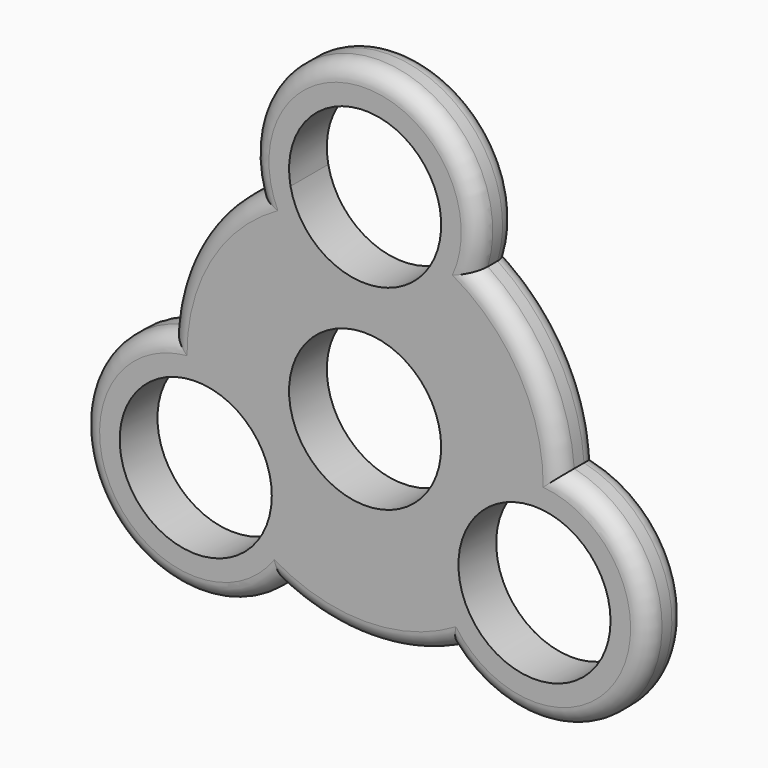
from build123d import *

# Parameters (mm, degrees)
F0_R     = 11.049
F1_DEPTH = 6.858
F2_R     = 2.54


with BuildPart() as f1:
    # F0 (on Front) → F1 (new body)
    with BuildSketch(Plane.XZ):
        with BuildLine():
            ThreePointArc((15.797847, 23.616737), (0, 44.923416), (-15.797847, 23.616737))
            ThreePointArc((-15.797847, 23.616737), (-24.60674, 14.206708), (-28.351617, 1.872968))
            ThreePointArc((-28.351617, 1.872968), (-38.904819, -22.461708), (-12.55377, -25.489705))
            ThreePointArc((-12.55377, -25.489705), (0, -28.413416), (12.55377, -25.489705))
            ThreePointArc((12.55377, -25.489705), (38.904819, -22.461708), (28.351617, 1.872968))
            ThreePointArc((28.351617, 1.872968), (24.60674, 14.206708), (15.797847, 23.616737))
        make_face()
        with Locations((-24.60674, -14.206708)):
            Circle(F0_R, mode=Mode.SUBTRACT)
        Circle(F0_R, mode=Mode.SUBTRACT)
        with Locations((24.60674, -14.206708)):
            Circle(F0_R, mode=Mode.SUBTRACT)
        with BuildLine():
            ThreePointArc((-10.838139, 26.265128), (2.590461, 39.154455), (8.667378, 21.560901))
            ThreePointArc((8.667378, 21.560901), (-2.590461, 17.672377), (-10.838139, 26.265128))
        make_face(mode=Mode.SUBTRACT)
    extrude(amount=F1_DEPTH)

    # F2
    f2_edges = [f1.edges().sort_by_distance(p)[0] for p in [
        (24.60674, -6.858, 14.206708),
        (0, -6.858, 44.923416),
        (-38.904819, -6.858, -22.461708),
        (-24.60674, -6.858, 14.206708),
        (0, -6.858, -28.413416),
        (38.904819, -6.858, -22.461708),
        (0, 0, 44.923416),
        (-24.60674, 0, 14.206708),
        (-38.904819, 0, -22.461708),
        (0, 0, -28.413416),
        (38.904819, 0, -22.461708),
        (24.60674, 0, 14.206708),
    ]]
    fillet(f2_edges, radius=F2_R)


solid = f1.part
